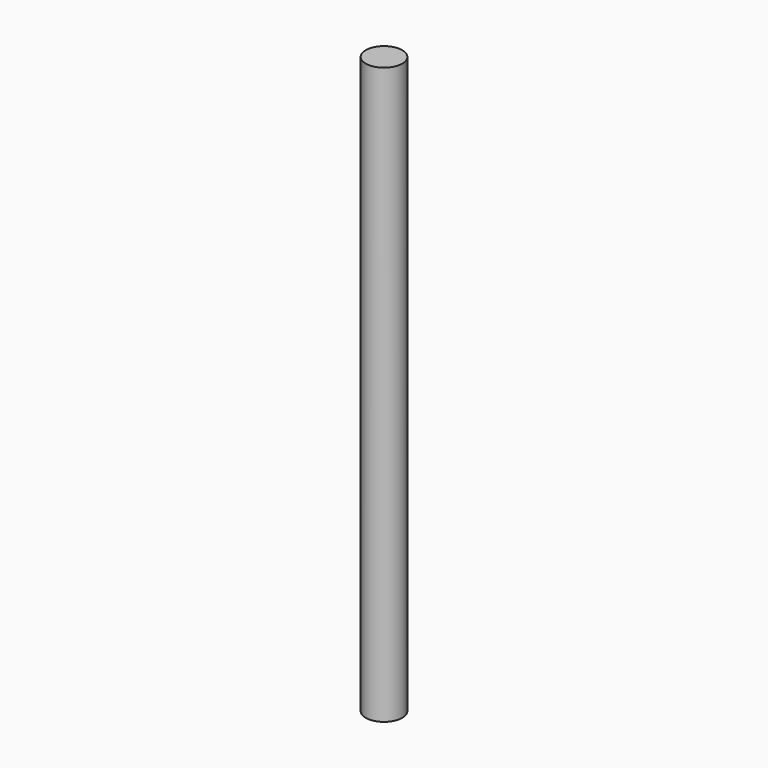
from build123d import *

# Parameters (mm, degrees)
SKETCH_R  = 2.6
PAD_DEPTH = 82


with BuildPart() as part:
    # Sketch → Pad (new body)
    with BuildSketch(Plane.XY):
        Circle(SKETCH_R)
    extrude(amount=PAD_DEPTH)


solid = part.part
